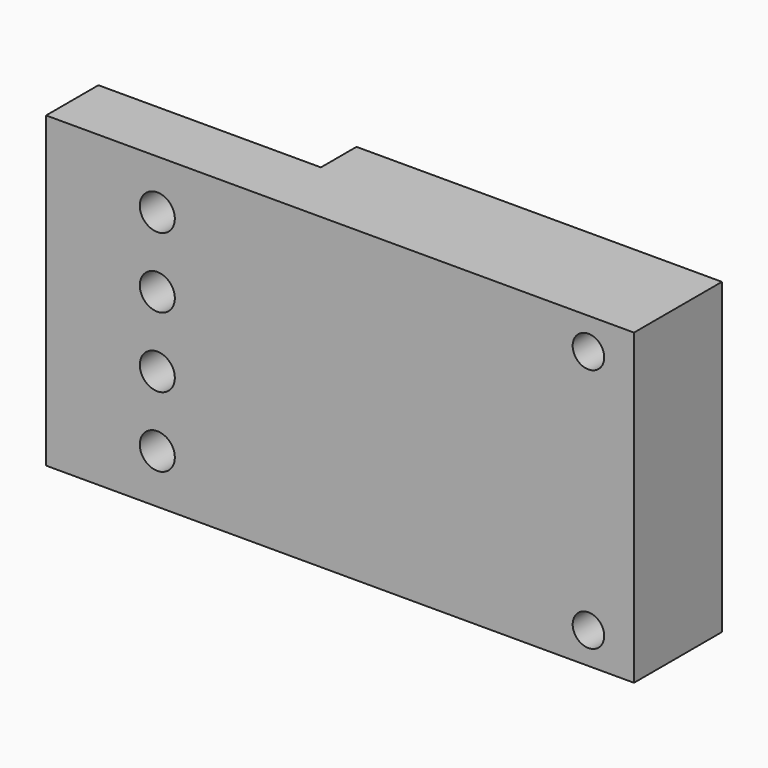
from build123d import *

# Parameters (mm, degrees)
F0_W     = 167.801
F0_H     = 88
F0_R     = 5
F0_R_2   = 4.5
F1_DEPTH = 31.375
F2_W     = 63.5
F2_H     = 12.7
F3_DEPTH = 88.001


with BuildPart() as f1:
    # F0 (on Front) → F1 (new body)
    with BuildSketch(Plane.XZ):
        with Locations((-1.279364, -11.298474)):
            Rectangle(F0_W, F0_H)
        with Locations((-53.429864, -41.298474)):
            Circle(F0_R, mode=Mode.SUBTRACT)
        with Locations((-53.429864, -21.298474)):
            Circle(F0_R, mode=Mode.SUBTRACT)
        with Locations((69.621136, -46.298474)):
            Circle(F0_R_2, mode=Mode.SUBTRACT)
        with Locations((-53.429864, -1.298474)):
            Circle(F0_R, mode=Mode.SUBTRACT)
        with Locations((-53.429864, 18.701526)):
            Circle(F0_R, mode=Mode.SUBTRACT)
        with Locations((69.621136, 23.701526)):
            Circle(F0_R_2, mode=Mode.SUBTRACT)
    extrude(amount=F1_DEPTH)

    # F2 (on face) → F3 (cut, through all)
    with BuildSketch(Plane(origin=(0, 0, -55.298474), x_dir=(1, 0, 0), z_dir=(0, 0, -1))):
        with Locations((-53.429864, 6.35)):
            Rectangle(F2_W, F2_H)
    extrude(amount=-F3_DEPTH, mode=Mode.SUBTRACT)


solid = f1.part
